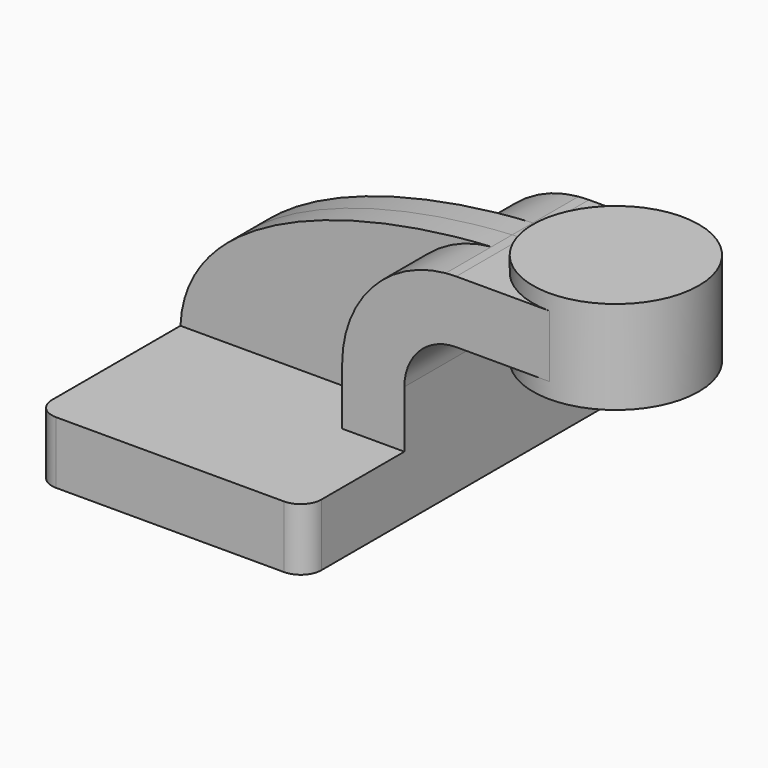
from build123d import *

# Parameters (mm, degrees)
F1_DEPTH = 63.5
F0_W     = 25.4
F0_H     = 19.05
F2_DEPTH = 25.4
F4_DEPTH = 7.9375
F5_R     = 6.35


with BuildPart() as f1:
    # F0 (on Front) → F1 (new body, symmetric)
    with BuildSketch(Plane.XZ):
        Polygon((-13.0225033219, -13.5087406552), (-76.5225033219, -13.5087406552), (-76.5225033219, -32.5587406552), (6.0274966781, -32.5587406552), (6.0274966781, -13.5087406552), align=None)
    extrude(amount=F1_DEPTH, both=True)

    # F0 (on Front) → F2 (join, symmetric)
    with BuildSketch(Plane.XZ):
        with BuildLine():
            Line((-13.0225033219, 3.9664593448), (-13.0225033219, -13.5087406552))
            Line((-13.0225033219, -13.5087406552), (6.0274966781, -13.5087406552))
            Line((6.0274966781, -13.5087406552), (6.0274966781, 3.9664593448))
            ThreePointArc((6.0274966781, 3.9664593448), (10.6771765268, 15.1917794961), (21.9024966781, 19.8414593448))
            Line((21.9024966781, 19.8414593448), (25.0774966781, 19.8414593448))
            Line((25.0774966781, 19.8414593448), (25.0774966781, 38.8914593448))
            Line((25.0774966781, 38.8914593448), (21.9024966781, 38.8914593448))
            add(Edge.make_bspline(
                [(18.7159547977, 38.7457861905), (19.7878187179, 38.803375048), (20.8504069906, 38.8518871936), (21.9024966781, 38.8914593448)],
                knots=[108.6156592565, 108.6156592565, 108.6156592565, 108.6156592565, 111.5045361635, 111.5045361635, 111.5045361635, 111.5045361635], degree=3))
            ThreePointArc((18.7159547977, 38.7457861905), (-3.8952319057, 27.5086093085), (-13.0225033219, 3.9664593448))
        make_face()
        with Locations((37.7774966781, 29.3664593448)):
            Rectangle(F0_W, F0_H)
    extrude(amount=F2_DEPTH, both=True)

    # F0 (on Front) → F3 (revolve)
    with BuildSketch(Plane.XZ):
        Polygon((50.4774966781, 43.6412593448), (50.4774966781, 38.8914593448), (50.4774966781, 19.8414593448), (50.4774966781, 15.0662593448), (75.8774966781, 15.0662593448), (75.8774966781, 43.6412593448), align=None)
    revolve(axis=Axis((50.4774966781, 0, 29.3537593448), (0, 0, 1)))

    # F0 (on Front) → F4 (join, symmetric)
    with BuildSketch(Plane.XZ):
        with BuildLine():
            add(Edge.make_bspline(
                [(-76.5225033219, -13.5087406552), (-74.9957398294, 21.5844996816), (-21.5838606933, 36.5805669986), (18.7159547977, 38.7457861905)],
                knots=[0, 0, 0, 0, 108.6156592565, 108.6156592565, 108.6156592565, 108.6156592565], degree=3))
            Line((-76.5225033219, -13.5087406552), (-13.0225033219, -13.5087406552))
            Line((-13.0225033219, -13.5087406552), (-13.0225033219, 3.9664593448))
            ThreePointArc((-13.0225033219, 3.9664593448), (-3.8952319057, 27.5086093085), (18.7159547977, 38.7457861905))
        make_face()
    extrude(amount=F4_DEPTH, both=True)

    # F5
    f5_edges = [f1.edges().sort_by_distance(p)[0] for p in [
        (6.027497, -63.5, -23.033741),
        (-76.522503, -63.5, -23.033741),
        (6.027497, 63.5, -23.033741),
        (-76.522503, 63.5, -23.033741),
    ]]
    fillet(f5_edges, radius=F5_R)


solid = f1.part
